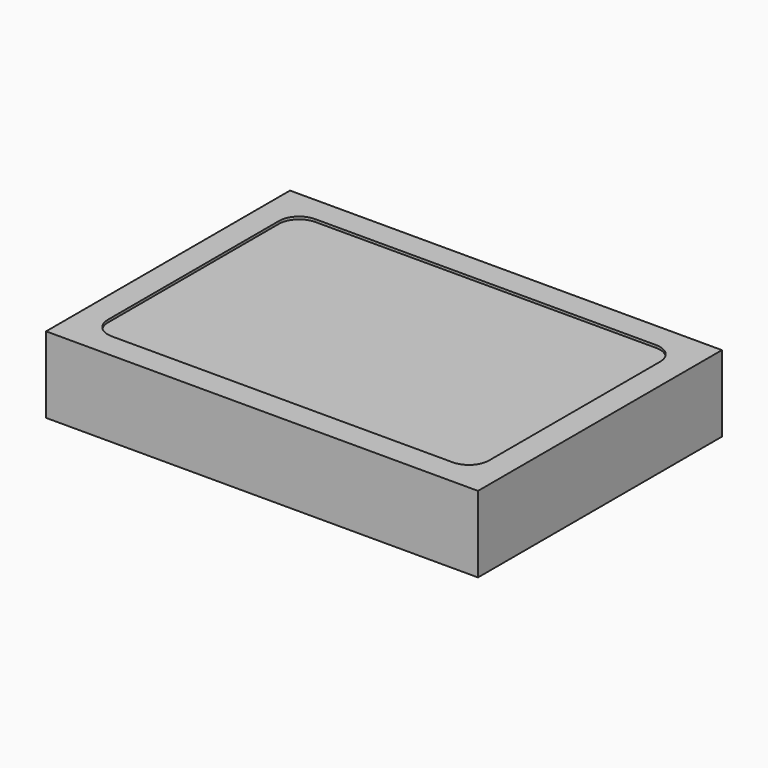
from build123d import *

# Parameters (mm, degrees)
F0_W     = 34
F0_H     = 24
F0_W_2   = 30
F0_H_2   = 20
F1_DEPTH = 6
F2_DEPTH = 0.2
F3_R     = 1.5875


with BuildPart() as f1:
    # F0 (on Top) → F1 (new body)
    with BuildSketch(Plane.XY):
        with Locations((15, -10)):
            Rectangle(F0_W, F0_H)
        with Locations((15, -10)):
            Rectangle(F0_W_2, F0_H_2, mode=Mode.SUBTRACT)
        with Locations((15, -10)):
            Rectangle(F0_W_2, F0_H_2)
    extrude(amount=-F1_DEPTH)

    # F0 (on Top) → F2 (cut)
    with BuildSketch(Plane.XY):
        with Locations((15, -10)):
            Rectangle(F0_W_2, F0_H_2)
    extrude(amount=-F2_DEPTH, mode=Mode.SUBTRACT)

    # F3
    f3_edges = [f1.edges().sort_by_distance(p)[0] for p in [
        (0, 0, -0.1),
        (30, 0, -0.1),
        (30, -20, -0.1),
        (0, -20, -0.1),
    ]]
    fillet(f3_edges, radius=F3_R)


solid = f1.part
